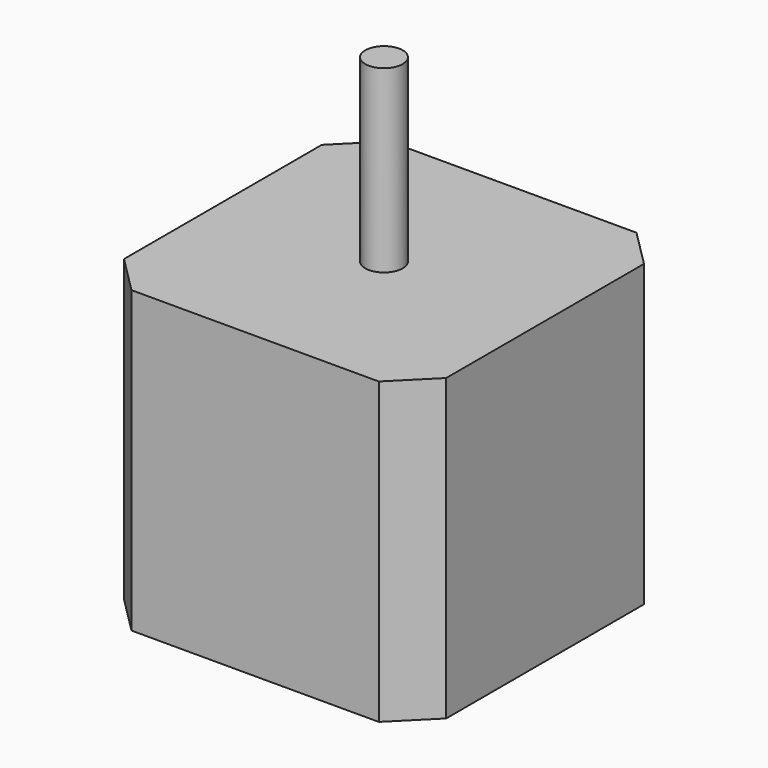
from build123d import *

# Parameters (mm, degrees)
F0_W     = 43
F0_H     = 43
F1_DEPTH = 40
F2_R     = 2.5
F3_DEPTH = 24
F4_SIZE  = 5


with BuildPart() as f1:
    # F0 (on Top) → F1 (new body)
    with BuildSketch(Plane.XY):
        Rectangle(F0_W, F0_H)
    extrude(amount=F1_DEPTH)

    # F2 (on face) → F3 (join)
    with BuildSketch(Plane.XY.offset(40)):
        Circle(F2_R)
    extrude(amount=F3_DEPTH)

    # F4
    f4_edges = [f1.edges().sort_by_distance(p)[0] for p in [
        (-21.5, -21.5, 20),
        (21.5, -21.5, 20),
        (21.5, 21.5, 20),
        (-21.5, 21.5, 20),
    ]]
    chamfer(f4_edges, length=F4_SIZE)


solid = f1.part
